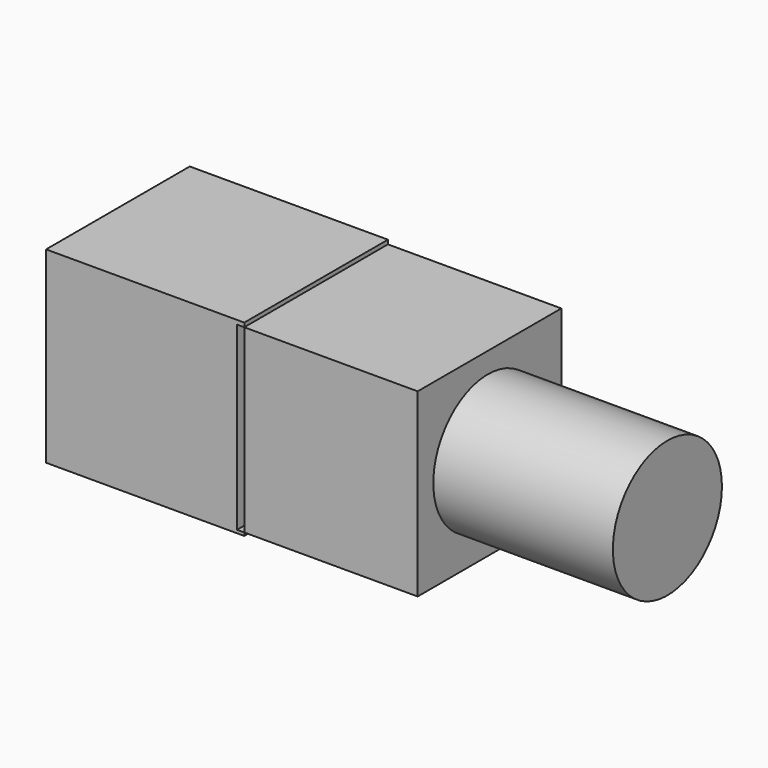
from build123d import *

# Parameters (mm, degrees)
F1_DEPTH = 25.4
F0_W     = 24.5286130812
F0_H     = 25.5506392568
F2_R     = 9.6406629259
F3_DEPTH = 25.4


with BuildPart() as f1:
    # F0 (on Front) → F1 (new body)
    with BuildSketch(Plane.XZ):
        Polygon((1.022024313, 0), (0, 0), (0, 25.5506392568), (1.022024313, 25.5506392568), (1.022024313, 26.1346530169), (-27.0106755197, 26.1346530169), (-27.0106755197, -0.4380109312), (1.022024313, -0.4380109312), align=None)
    extrude(amount=F1_DEPTH)


with BuildPart() as f1b:
    # F0 (on Front) → F1, piece 2 (new body)
    with BuildSketch(Plane.XZ):
        with Locations((13.2863308536, 12.7753196284)):
            Rectangle(F0_W, F0_H)
    extrude(amount=F1_DEPTH)

    # F2 (on face) → F3 (join)
    with BuildSketch(Plane.YZ.offset(25.5506373942)):
        with Locations((-12.9943247885, 12.9943247885)):
            Circle(F2_R)
    extrude(amount=F3_DEPTH)


solid = Compound([f1.part, f1b.part])
